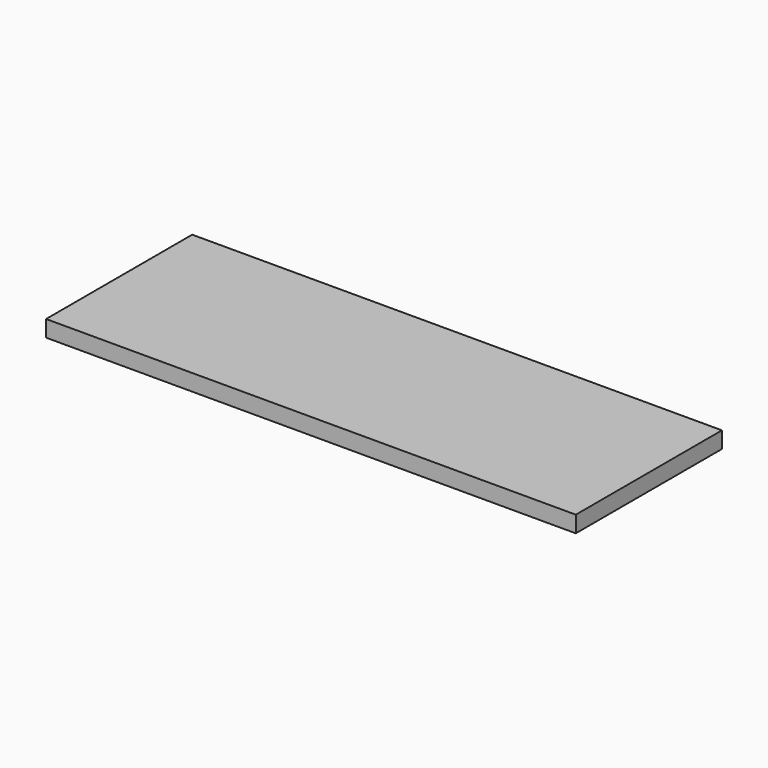
from build123d import *

# Parameters (mm, degrees)
SKETCH_W  = 200
SKETCH_H  = 18
PAD_DEPTH = 580


with BuildPart() as part:
    # Sketch → Pad (new body)
    with BuildSketch(Plane.YZ):
        with Locations((-100, 9)):
            Rectangle(SKETCH_W, SKETCH_H)
    extrude(amount=PAD_DEPTH)


solid = part.part
